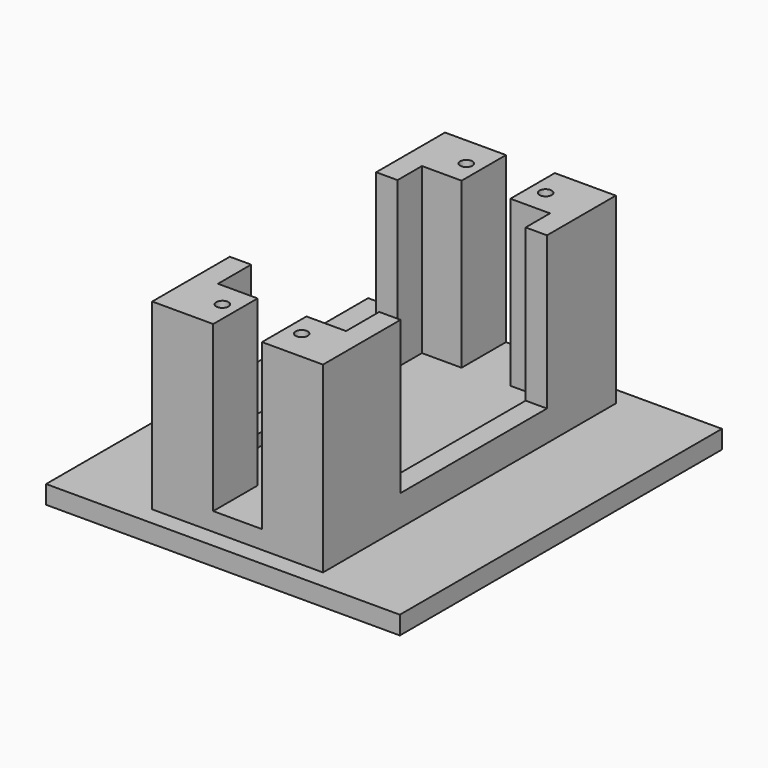
from build123d import *

# Parameters (mm, degrees)
SKETCH_W        = 28
SKETCH_H        = 60
PAD_DEPTH       = 30
SKETCH001_W     = 21
SKETCH001_H     = 41.8
POCKET_DEPTH    = 27
SKETCH002_W     = 3.5
SKETCH002_H     = 30
POCKET001_DEPTH = 25
SKETCH003_W     = 3.5
SKETCH003_H     = 30
POCKET002_DEPTH = 25
SKETCH006_W     = 8
SKETCH006_H     = 7
POCKET005_DEPTH = 60.001
SKETCH007_R     = 1
POCKET006_DEPTH = 7
SKETCH008_R     = 1
POCKET007_DEPTH = 7
SKETCH009_W     = 8
SKETCH009_H     = 20
POCKET008_DEPTH = 60.001
SKETCH010_W     = 58
SKETCH010_H     = 60
PAD001_DEPTH    = 3
SKETCH011_W     = 58
SKETCH011_H     = 3
PAD002_DEPTH    = 3
SKETCH012_W     = 58
SKETCH012_H     = 3
PAD003_DEPTH    = 3


with BuildPart() as part:
    # Sketch → Pad (new body)
    with BuildSketch(Plane.XY):
        with Locations((14, 30)):
            Rectangle(SKETCH_W, SKETCH_H)
    extrude(amount=PAD_DEPTH)

    # Sketch001 (on Face6 of Pad) → Pocket (cut)
    with BuildSketch(Plane.XY.offset(30)):
        with Locations((14, 30)):
            Rectangle(SKETCH001_W, SKETCH001_H)
    extrude(amount=-POCKET_DEPTH, mode=Mode.SUBTRACT)

    # Sketch002 (on Face5 of Pocket) → Pocket001 (cut)
    with BuildSketch(Plane.XY.offset(30)):
        with Locations((1.75, 30.9)):
            Rectangle(SKETCH002_W, SKETCH002_H)
    extrude(amount=-POCKET001_DEPTH, mode=Mode.SUBTRACT)

    # Sketch003 (on Face5 of Pocket) → Pocket002 (cut)
    with BuildSketch(Plane.XY.offset(30)):
        with Locations((26.25, 30.9)):
            Rectangle(SKETCH003_W, SKETCH003_H)
    extrude(amount=-POCKET002_DEPTH, mode=Mode.SUBTRACT)

    # Sketch006 → Pocket005 (cut, through all)
    with BuildSketch(Plane(origin=(0, 60, 0), x_dir=(-1, 0, 0), z_dir=(0, 1, 0))):
        with Locations((-14, 6.5)):
            Rectangle(SKETCH006_W, SKETCH006_H)
    extrude(amount=-POCKET005_DEPTH, mode=Mode.SUBTRACT)

    # Sketch007 (on Face4 of Pocket005) → Pocket006 (cut)
    with BuildSketch(Plane.XY.offset(30)):
        with Locations((7.5, 5)):
            Circle(SKETCH007_R)
        with Locations((20.5, 5)):
            Circle(SKETCH007_R)
    extrude(amount=-POCKET006_DEPTH, mode=Mode.SUBTRACT)

    # Sketch008 (on Face13 of Pocket005) → Pocket007 (cut)
    with BuildSketch(Plane.XY.offset(30)):
        with Locations((7.5, 55)):
            Circle(SKETCH008_R)
        with Locations((20.5, 55)):
            Circle(SKETCH008_R)
    extrude(amount=-POCKET007_DEPTH, mode=Mode.SUBTRACT)

    # Sketch009 (on Face1 of Pocket007) → Pocket008 (cut, through all)
    with BuildSketch(Plane.XZ):
        with Locations((14, 20)):
            Rectangle(SKETCH009_W, SKETCH009_H)
    extrude(amount=-POCKET008_DEPTH, mode=Mode.SUBTRACT)

    # Sketch010 (on Face2 of Pocket008) → Pad001 (join)
    with BuildSketch(Plane(origin=(0, 0, 0), x_dir=(1, 0, 0), z_dir=(0, 0, -1))):
        with Locations((14, -30)):
            Rectangle(SKETCH010_W, SKETCH010_H)
    extrude(amount=PAD001_DEPTH)

    # Sketch011 (on Face1 of Pad001) → Pad002 (join)
    with BuildSketch(Plane.XZ):
        with Locations((14, -1.5)):
            Rectangle(SKETCH011_W, SKETCH011_H)
    extrude(amount=PAD002_DEPTH)

    # Sketch012 (on Face8 of Pad001) → Pad003 (join)
    with BuildSketch(Plane(origin=(0, 60, 0), x_dir=(-1, 0, 0), z_dir=(0, 1, 0))):
        with Locations((-14, -1.5)):
            Rectangle(SKETCH012_W, SKETCH012_H)
    extrude(amount=PAD003_DEPTH)


solid = part.part
